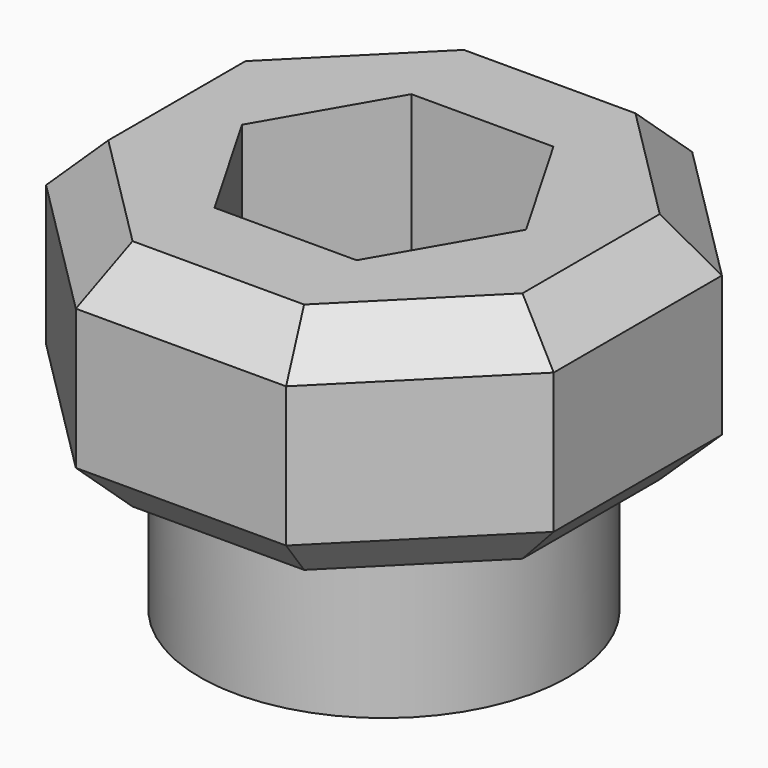
from build123d import *

# Parameters (mm, degrees)
F0_R     = 5.0038
F0_R_2   = 2.0066
F1_DEPTH = 3.9878
F2_R     = 5.0038
F2_R_2   = 2.0066
F3_DEPTH = 6.35
F4_SIZE  = 1.27
F6_DEPTH = 7.0104


with BuildPart() as f1:
    # F0 (on Top) → F1 (new body)
    with BuildSketch(Plane.XY):
        Circle(F0_R)
        Circle(F0_R_2, mode=Mode.SUBTRACT)
    extrude(amount=F1_DEPTH)

    # F2 (on face) → F3 (join)
    with BuildSketch(Plane.XY.offset(3.9878)):
        Polygon((-2.8575, -6.898615), (2.8575, -6.898615), (6.898615, -2.8575), (6.898615, 2.8575), (2.8575, 6.898615), (-2.8575, 6.898615), (-6.898615, 2.8575), (-6.898615, -2.8575), align=None)
        Circle(F2_R, mode=Mode.SUBTRACT)
        Circle(F2_R)
        Circle(F2_R_2, mode=Mode.SUBTRACT)
    extrude(amount=F3_DEPTH)

    # F4
    f4_edges = [f1.edges().sort_by_distance(p)[0] for p in [
        (-6.898615, 0, 10.3378),
        (-4.878058, 4.878058, 10.3378),
        (0, 6.898615, 10.3378),
        (4.878058, 4.878058, 10.3378),
        (6.898615, 0, 10.3378),
        (4.878058, -4.878058, 10.3378),
        (0, -6.898615, 10.3378),
        (-4.878058, -4.878058, 10.3378),
        (0, -6.898615, 3.9878),
        (-4.878058, -4.878058, 3.9878),
        (4.878058, -4.878058, 3.9878),
        (-6.898615, 0, 3.9878),
        (6.898615, 0, 3.9878),
        (4.878058, 4.878058, 3.9878),
        (0, 6.898615, 3.9878),
        (-4.878058, 4.878058, 3.9878),
    ]]
    chamfer(f4_edges, length=F4_SIZE)

    # F5 (on face) → F6 (cut)
    with BuildSketch(Plane.XY.offset(10.3378)):
        Polygon((1.9304, -3.343551), (3.8608, 0), (1.9304, 3.343551), (-1.9304, 3.343551), (-3.8608, 0), (-1.9304, -3.343551), align=None)
    extrude(amount=-F6_DEPTH, mode=Mode.SUBTRACT)


solid = f1.part
